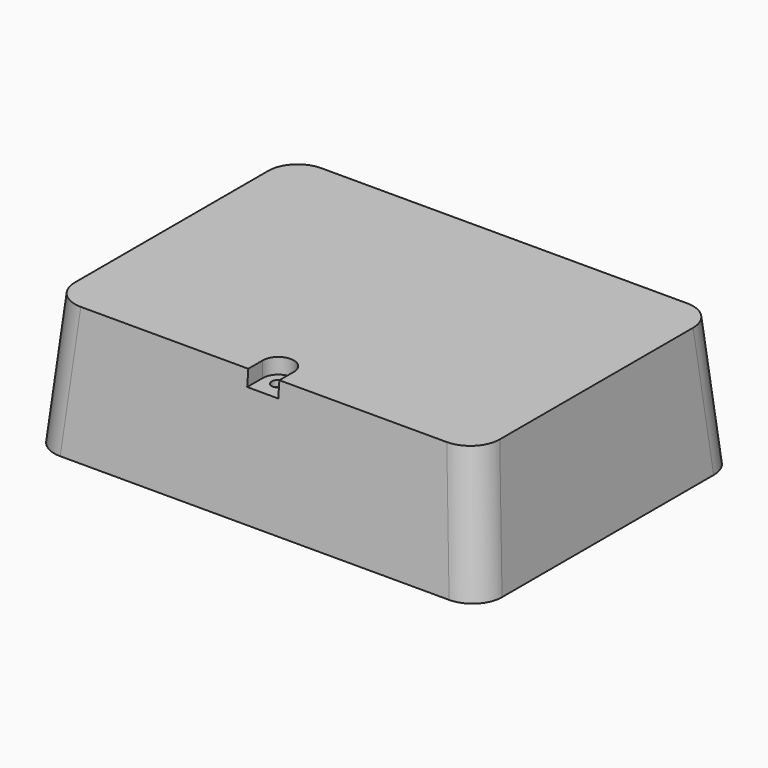
from build123d import *

# Parameters (mm, degrees)
F0_W     = 177.8
F0_H     = 127
F1_DEPTH = 50.8
F1_TAPER = 5
F4_DEPTH = 6.35
F5_R     = 9.525
F6_T     = 2.54
F7_D     = 5.334


with BuildPart() as f1:
    # F0 (on Top) → F1 (new body)
    with BuildSketch(Plane.XY):
        Rectangle(F0_W, F0_H)
    extrude(amount=F1_DEPTH, taper=F1_TAPER)

    # F3 (on face) → F4 (cut)
    with BuildSketch(Plane.XY.offset(50.8)):
        with BuildLine():
            ThreePointArc((8.8899883424, -53.9606030597), (-0.0143969403, -45.0850116576), (-8.8899883424, -53.9893969403))
            Line((-8.8899883424, -53.9893969403), (-8.867513666, -67.8673187242))
            ThreePointArc((-8.867513666, -67.8673187242), (0.0368716166, -76.7429101263), (8.9124630188, -67.8385248437))
            Line((8.9124630188, -67.8385248437), (8.8899883424, -53.9606030597))
        make_face()
    extrude(amount=-F4_DEPTH, mode=Mode.SUBTRACT)

    # F5
    f5_edges = [f1.edges().sort_by_distance(p)[0] for p in [
        (-86.677788, 61.277788, 25.4),
        (-86.677788, -61.277788, 25.4),
        (86.677788, 61.277788, 25.4),
        (86.677788, -61.277788, 25.4),
    ]]
    fillet(f5_edges, radius=F5_R)

    # F6
    f6_openings = [f1.faces().sort_by_distance(p)[0] for p in [
        (0, 0, 0),
    ]]
    offset(amount=F6_T, openings=f6_openings, kind=Kind.INTERSECTION)

    # F7 (through all)
    with Locations(Plane.XY.offset(50.8)):
        with Locations((0, -53.975)):
            Hole(F7_D / 2)


solid = f1.part
